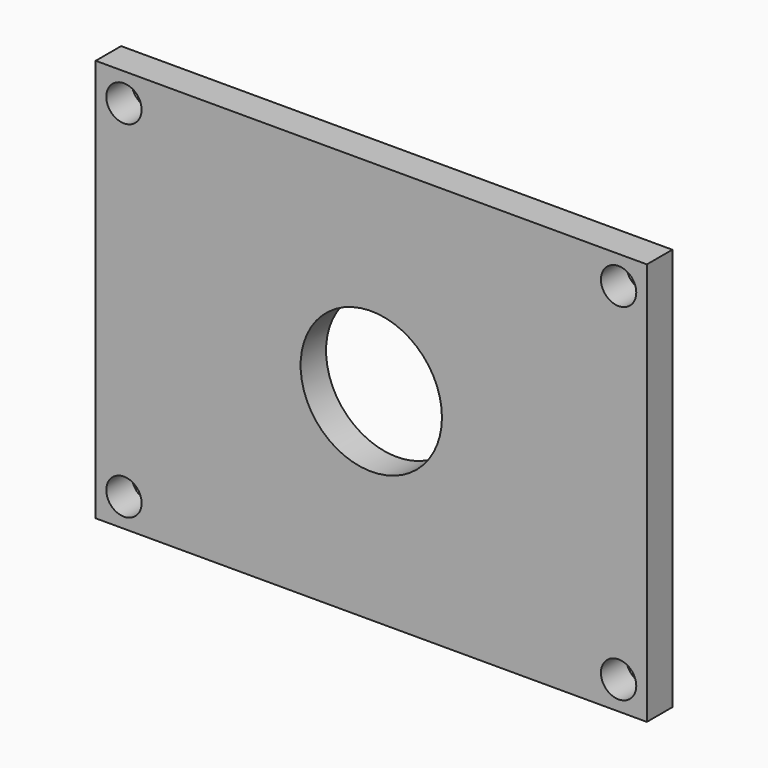
from build123d import *

# Parameters (mm, degrees)
F0_R     = 5
F0_R_2   = 20
F1_DEPTH = 9


with BuildPart() as f1:
    # F0 (on Front) → F1 (new body)
    with BuildSketch(Plane.XZ):
        Polygon((-78, -52), (-78, -57), (78, -57), (78, -52), (78, 52), (78, 57), (-78, 57), (-78, 52), align=None)
        with Locations((-70, -49)):
            Circle(F0_R, mode=Mode.SUBTRACT)
        with Locations((70, -49)):
            Circle(F0_R, mode=Mode.SUBTRACT)
        with Locations((-70, 49)):
            Circle(F0_R, mode=Mode.SUBTRACT)
        Circle(F0_R_2, mode=Mode.SUBTRACT)
        with Locations((70, 49)):
            Circle(F0_R, mode=Mode.SUBTRACT)
    extrude(amount=F1_DEPTH)


solid = f1.part
